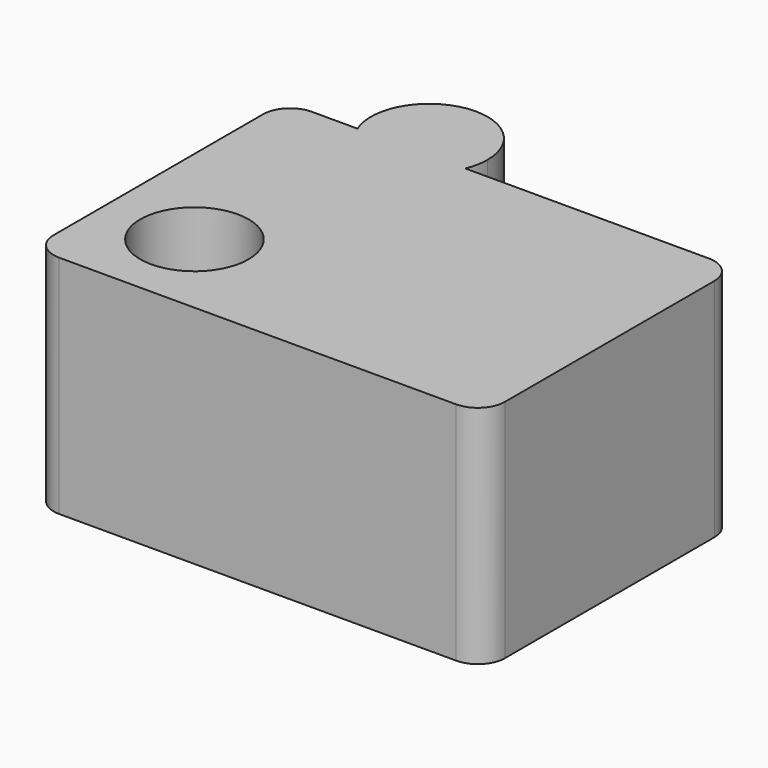
from build123d import *

# Parameters (mm, degrees)
F0_R     = 6
F1_DEPTH = 25
F2_R     = 3


with BuildPart() as f1:
    # F0 (on Top) → F1 (new body)
    with BuildSketch(Plane.XY):
        with BuildLine():
            Line((-22.9061706387, 9.4964984804), (-30.9678750113, 9.4964984804))
            Line((-30.9678750113, 9.4964984804), (-30.9678750113, -25.5035015196))
            Line((-30.9678750113, -25.5035015196), (19.0321249887, -25.5035015196))
            Line((19.0321249887, -25.5035015196), (19.0321249887, 9.4964984804))
            Line((19.0321249887, 9.4964984804), (-10.9550343431, 9.4964984804))
            ThreePointArc((-10.9550343431, 9.4964984804), (-16.9306024909, 5.4964984804), (-22.9061706387, 9.4964984804))
        make_face()
        with Locations((-20.9678750113, -15.5035015196)):
            Circle(F0_R, mode=Mode.SUBTRACT)
        with BuildLine():
            Line((-10.9550343431, 9.4964984804), (-22.9061706387, 9.4964984804))
            ThreePointArc((-22.9061706387, 9.4964984804), (-16.9306024909, 5.4964984804), (-10.9550343431, 9.4964984804))
        make_face()
        with BuildLine():
            ThreePointArc((-10.4671756547, 11.9599253166), (-18.1862375769, 18.3002145054), (-22.9061706387, 9.4964984804))
            Line((-22.9061706387, 9.4964984804), (-10.9550343431, 9.4964984804))
            ThreePointArc((-10.9550343431, 9.4964984804), (-10.5903133021, 10.7042902306), (-10.4671756547, 11.9599253166))
        make_face()
    extrude(amount=F1_DEPTH)

    # F2
    f2_edges = [f1.edges().sort_by_distance(p)[0] for p in [
        (-30.967875, 9.496498, 12.5),
        (-30.967875, -25.503502, 12.5),
        (19.032125, -25.503502, 12.5),
        (19.032125, 9.496498, 12.5),
    ]]
    fillet(f2_edges, radius=F2_R)


solid = f1.part
